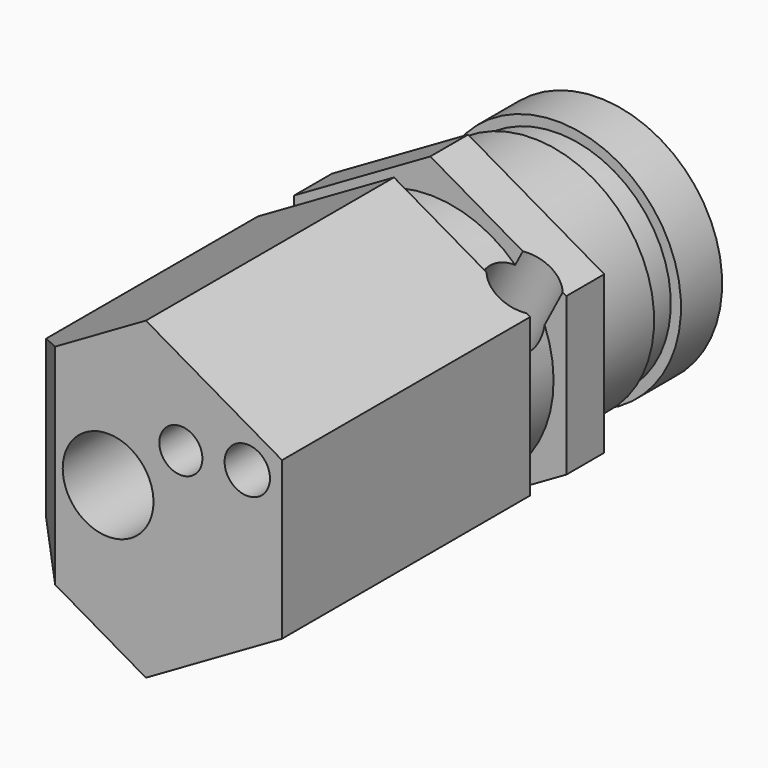
from build123d import *

# Parameters (mm, degrees)
F1_DEPTH  = 41
F2_R      = 16.3
F3_DEPTH  = 6
F5_DEPTH  = 6.25
F6_R      = 16
F7_DEPTH  = 10.75
F8_R      = 15
F9_DEPTH  = 4
F10_R     = 16.35
F11_DEPTH = 6.8
F12_R     = 13.65
F13_DEPTH = 2
F14_R     = 6
F15_DEPTH = 72.801
F16_R     = 2.85
F17_DEPTH = 26
F21_R     = 3
F22_DEPTH = 45
F23_SIZE  = 6
F24_R     = 2.85
F25_DEPTH = 72.8010001


with BuildPart() as f1:
    # F0 (on Front) → F1 (new body)
    with BuildSketch(Plane.XZ):
        Polygon((0, -20.7846096908), (18, -10.3923048454), (18, 10.3923048454), (0, 20.7846096908), (-18, 10.3923048454), (-18, -10.3923048454), align=None)
    extrude(amount=-F1_DEPTH)

    # F2 (on face) → F3 (join)
    with BuildSketch(Plane(origin=(0, 41, 0), x_dir=(-1, 0, 0), z_dir=(0, 1, 0))):
        Circle(F2_R)
    extrude(amount=F3_DEPTH)

    # F4 (on face) → F5 (join)
    with BuildSketch(Plane(origin=(0, 47, 0), x_dir=(-1, 0, 0), z_dir=(0, 1, 0))):
        Polygon((0, -20.7846096908), (18, -10.3923048454), (18, 10.3923048454), (0, 20.7846096908), (-18, 10.3923048454), (-18, -10.3923048454), align=None)
    extrude(amount=F5_DEPTH)

    # F6 (on face) → F7 (join)
    with BuildSketch(Plane(origin=(0, 53.25, 0), x_dir=(-1, 0, 0), z_dir=(0, 1, 0))):
        Circle(F6_R)
    extrude(amount=F7_DEPTH)

    # F8 (on face) → F9 (join)
    with BuildSketch(Plane(origin=(0, 64, 0), x_dir=(-1, 0, 0), z_dir=(0, 1, 0))):
        Circle(F8_R)
    extrude(amount=F9_DEPTH)

    # F10 (on face) → F11 (join)
    with BuildSketch(Plane(origin=(0, 68, 0), x_dir=(-1, 0, 0), z_dir=(0, 1, 0))):
        Circle(F10_R)
    extrude(amount=F11_DEPTH)

    # F12 (on face) → F13 (cut)
    with BuildSketch(Plane(origin=(0, 74.8, 0), x_dir=(-1, 0, 0), z_dir=(0, 1, 0))):
        Circle(F12_R)
    extrude(amount=-F13_DEPTH, mode=Mode.SUBTRACT)

    # F14 (on face) → F15 (cut, through all)
    with BuildSketch(Plane(origin=(0, 72.8, 0), x_dir=(-1, 0, 0), z_dir=(0, 1, 0))):
        with Locations((5, 0)):
            Circle(F14_R)
    extrude(amount=-F15_DEPTH, mode=Mode.SUBTRACT)

    # F16 (on face) → F17 (cut)
    with BuildSketch(Plane(origin=(0, 72.8, 0), x_dir=(-1, 0, 0), z_dir=(0, 1, 0))):
        with Locations((-4.87, -6.95)):
            Circle(F16_R)
        with Locations((-8.5, 0)):
            Circle(F16_R)
    extrude(amount=-F17_DEPTH, mode=Mode.SUBTRACT)

    # F19 (on offset) → F20 (revolve, cut)
    with BuildSketch(Plane.XZ.offset(-44)):
        Polygon((19.0103325466, 10.8889942077), (15.2210576437, 12.8681406677), (4.87, -6.95), (8.6592749029, -8.9291464601), align=None)
    revolve(axis=Axis((11.6872206375, 44, 6.1022543886), (0.4629582363, 0, 0.8863800942)), mode=Mode.SUBTRACT)

    # F21 (on face) → F22 (cut)
    with BuildSketch(Plane.XZ):
        with Locations((13.4, 7.7364936071)):
            Circle(F21_R)
    extrude(amount=-F22_DEPTH, mode=Mode.SUBTRACT)

    # F23
    f23_edges = [f1.edges().sort_by_distance(p)[0] for p in [
        (-18, 0, 0),
    ]]
    chamfer(f23_edges, length=F23_SIZE)

    # F24 (on face) → F25 (cut, through all)
    with BuildSketch(Plane(origin=(0, 72.8, 0), x_dir=(-1, 0, 0), z_dir=(0, 1, 0))):
        with Locations((-4.62, 7.15)):
            Circle(F24_R)
    extrude(amount=-F25_DEPTH, mode=Mode.SUBTRACT)


solid = f1.part
